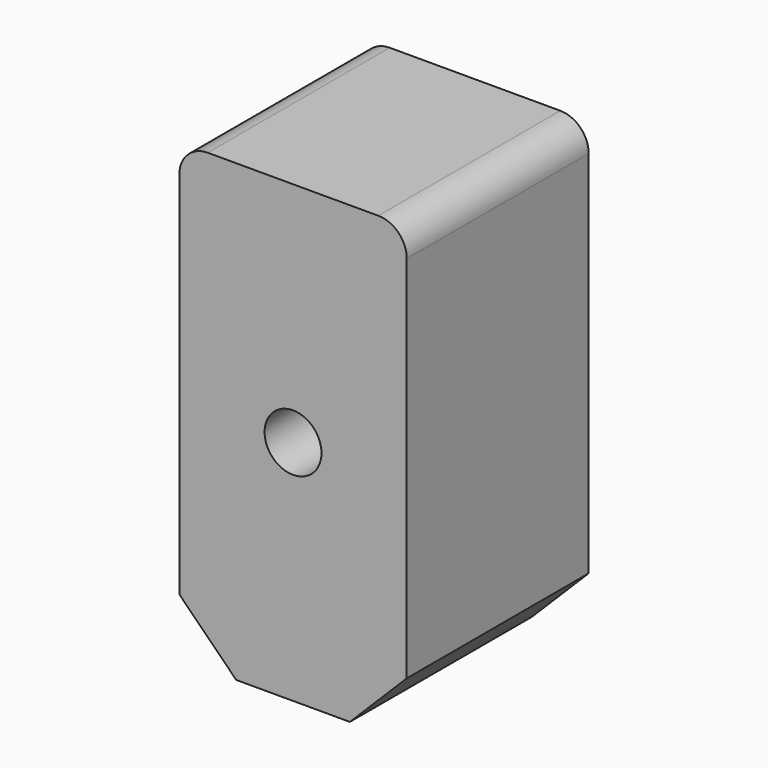
from build123d import *

# Parameters (mm, degrees)
F0_R     = 25
F1_DEPTH = 200
F2_SIZE  = 50


with BuildPart() as f1:
    # F0 (on Front) → F1 (new body)
    with BuildSketch(Plane.XZ):
        with BuildLine():
            ThreePointArc((100, 175), (92.67767, 192.67767), (75, 200))
            Line((75, 200), (-75, 200))
            ThreePointArc((-75, 200), (-92.67767, 192.67767), (-100, 175))
            Line((-100, 175), (-100, -200))
            Line((-100, -200), (100, -200))
            Line((100, -200), (100, 175))
        make_face()
        Circle(F0_R, mode=Mode.SUBTRACT)
    extrude(amount=F1_DEPTH)

    # F2
    f2_edges = [f1.edges().sort_by_distance(p)[0] for p in [
        (100, -100, -200),
        (-100, -100, -200),
    ]]
    chamfer(f2_edges, length=F2_SIZE)


solid = f1.part
